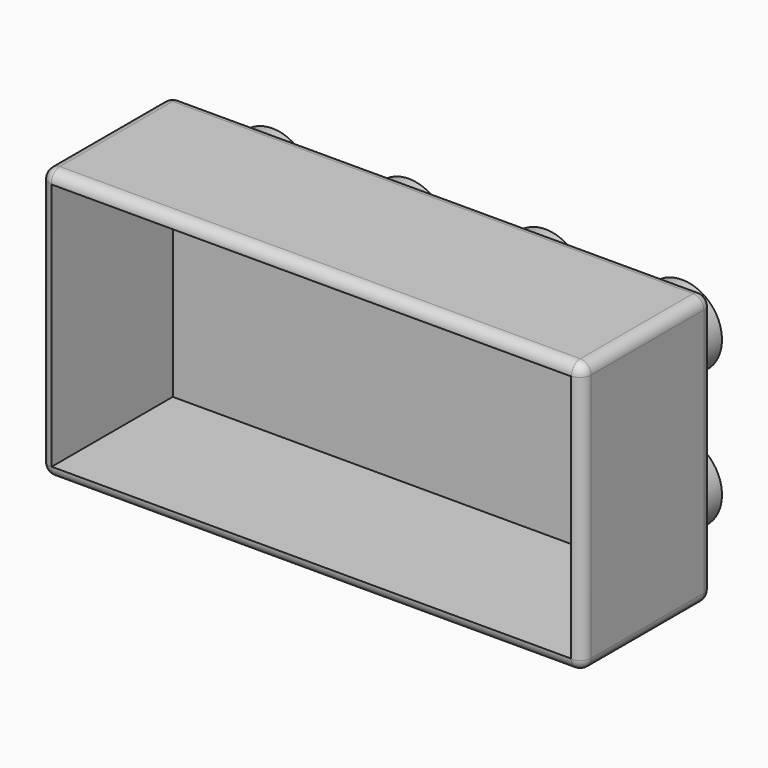
from build123d import *

# Parameters (mm, degrees)
F0_W     = 63.5
F0_H     = 19.05
F1_DEPTH = 31.75
F2_T     = -1.3208
F3_R     = 4.6736
F3_R_2   = 3.556
F4_DEPTH = 5.08
F5_R     = 1.27


with BuildPart() as f1:
    # F0 (on Top) → F1 (new body)
    with BuildSketch(Plane.XY):
        with Locations((31.75, 9.525)):
            Rectangle(F0_W, F0_H)
    extrude(amount=F1_DEPTH)

    # F2
    f2_openings = [f1.faces().sort_by_distance(p)[0] for p in [
        (31.75, 0, 15.875),
    ]]
    offset(amount=F2_T, openings=f2_openings)

    # F3 (on face) → F4 (join)
    with BuildSketch(Plane(origin=(0, 19.05, 0), x_dir=(-1, 0, 0), z_dir=(0, 1, 0))):
        with Locations((-7.874, 23.876)):
            Circle(F3_R)
        with Locations((-7.874, 23.876)):
            Circle(F3_R_2, mode=Mode.SUBTRACT)
        with Locations((-23.876, 23.876)):
            Circle(F3_R)
        with Locations((-23.876, 23.876)):
            Circle(F3_R_2, mode=Mode.SUBTRACT)
        with Locations((-39.878, 23.876)):
            Circle(F3_R)
        with Locations((-39.878, 23.876)):
            Circle(F3_R_2, mode=Mode.SUBTRACT)
        with Locations((-55.88, 23.876)):
            Circle(F3_R)
        with Locations((-55.88, 23.876)):
            Circle(F3_R_2, mode=Mode.SUBTRACT)
        with Locations((-55.88, 7.874)):
            Circle(F3_R)
        with Locations((-55.88, 7.874)):
            Circle(F3_R_2, mode=Mode.SUBTRACT)
        with Locations((-39.878, 7.874)):
            Circle(F3_R)
        with Locations((-39.878, 7.874)):
            Circle(F3_R_2, mode=Mode.SUBTRACT)
        with Locations((-23.876, 7.874)):
            Circle(F3_R)
        with Locations((-23.876, 7.874)):
            Circle(F3_R_2, mode=Mode.SUBTRACT)
        with Locations((-7.874, 7.874)):
            Circle(F3_R)
        with Locations((-7.874, 7.874)):
            Circle(F3_R_2, mode=Mode.SUBTRACT)
    extrude(amount=F4_DEPTH)

    # F5
    f5_edges = [f1.edges().sort_by_distance(p)[0] for p in [
        (0, 9.525, 31.75),
        (31.75, 0, 31.75),
        (63.5, 9.525, 31.75),
        (31.75, 19.05, 31.75),
        (0, 19.05, 15.875),
        (0, 0, 15.875),
        (0, 9.525, 0),
        (31.75, 0, 0),
        (63.5, 9.525, 0),
        (31.75, 19.05, 0),
        (63.5, 0, 15.875),
        (63.5, 19.05, 15.875),
    ]]
    fillet(f5_edges, radius=F5_R)


solid = f1.part
